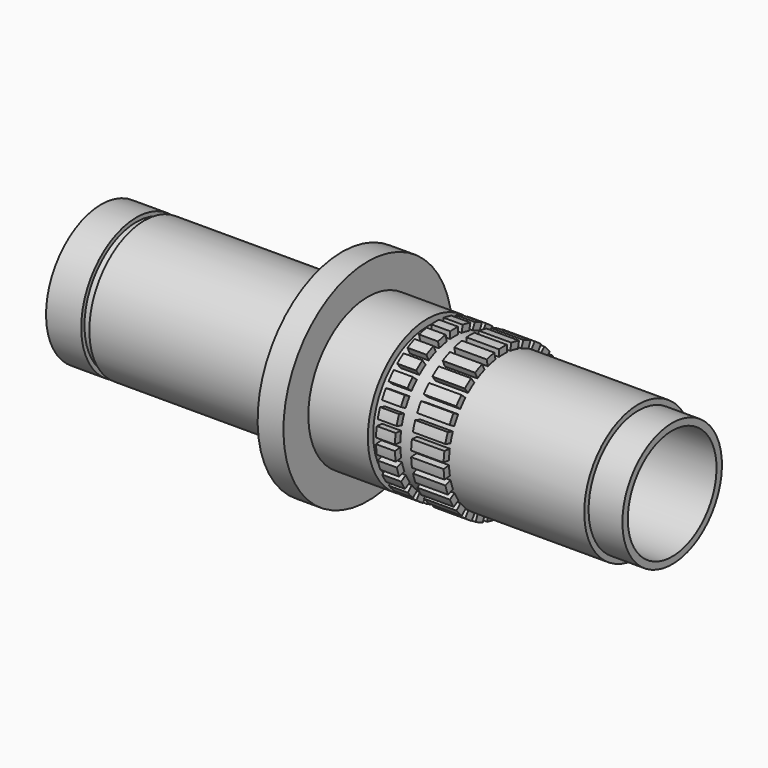
from build123d import *

# Parameters (mm, degrees)
F4_DEPTH  = 7
F7_DEPTH  = 12
F9_DEPTH  = 100
F10_COUNT = 30
F11_COUNT = 30


with BuildPart() as f1:
    # F0 (on Front) → F1 (revolve)
    with BuildSketch(Plane.XZ):
        Polygon((-98.55, 25.5), (-98.55, 15.5), (26.45, 15.5), (26.45, 20.5), (112.5, 20.5), (112.5, 23), (100, 23), (100, 25), (22, 25), (22, 27.5), (0, 27.5), (0, 39), (-9.55, 39), (-9.55, 25.5), (-82.55, 25.5), (-82.55, 24), (-85.55, 24), (-85.55, 25.5), align=None)
    revolve(axis=Axis((20.7005258059, 0, 0), (1, 0, 0)))

    # F8 (on face) → F9 (cut)
    with BuildSketch(Plane(origin=(-98.55, 0, 0), x_dir=(0, -1, 0), z_dir=(-1, 0, 0))):
        with BuildLine():
            ThreePointArc((-3.5, 15.0996688705), (0, 15.5), (3.5, 15.0996688705))
            Line((3.5, 15.0996688705), (3.5, 18.5))
            Line((3.5, 18.5), (-3.5, 18.5))
            Line((-3.5, 18.5), (-3.5, 15.0996688705))
        make_face()
    extrude(amount=-F9_DEPTH, mode=Mode.SUBTRACT)


with BuildPart() as f4:
    # F3 (on offset) → F4 (new body)
    with BuildSketch(Plane.YZ.offset(25)):
        with BuildLine():
            ThreePointArc((-1.9210102004, 24.926085128), (-0.1102360305, 24.9997569592), (1.701117422, 24.9420568421))
            Line((1.701117422, 24.9420568421), (1.701117422, 27.4473350167))
            ThreePointArc((1.701117422, 27.4473350167), (-0.1101855971, 27.4997792561), (-1.9210102004, 27.432821944))
            Line((-1.9210102004, 27.432821944), (-1.9210102004, 24.926085128))
        make_face()
    extrude(amount=F4_DEPTH)


with BuildPart() as f7:
    # F6 (on offset) → F7 (new body)
    with BuildSketch(Plane.YZ.offset(38)):
        with BuildLine():
            Line((1.701117422, 24.9420568421), (1.701117422, 27.4473350167))
            ThreePointArc((1.701117422, 27.4473350167), (-0.1101855971, 27.4997792561), (-1.9210102004, 27.432821944))
            Line((-1.9210102004, 27.432821944), (-1.9210102004, 24.926085128))
            ThreePointArc((-1.9210102004, 24.926085128), (-0.1102360305, 24.9997569592), (1.701117422, 24.9420568421))
        make_face()
    extrude(amount=F7_DEPTH)


with BuildPart() as f10_1:
    # F10: instance of F7
    add(f7.part.rotate(Axis((0, 0, 0), (-1, 0, 0)), 1 * 360 / F10_COUNT))


with BuildPart() as f10_2:
    # F10: instance of F7
    add(f7.part.rotate(Axis((0, 0, 0), (-1, 0, 0)), 2 * 360 / F10_COUNT))


with BuildPart() as f10_3:
    # F10: instance of F7
    add(f7.part.rotate(Axis((0, 0, 0), (-1, 0, 0)), 3 * 360 / F10_COUNT))


with BuildPart() as f10_4:
    # F10: instance of F7
    add(f7.part.rotate(Axis((0, 0, 0), (-1, 0, 0)), 4 * 360 / F10_COUNT))


with BuildPart() as f10_5:
    # F10: instance of F7
    add(f7.part.rotate(Axis((0, 0, 0), (-1, 0, 0)), 5 * 360 / F10_COUNT))


with BuildPart() as f10_6:
    # F10: instance of F7
    add(f7.part.rotate(Axis((0, 0, 0), (-1, 0, 0)), 6 * 360 / F10_COUNT))


with BuildPart() as f10_7:
    # F10: instance of F7
    add(f7.part.rotate(Axis((0, 0, 0), (-1, 0, 0)), 7 * 360 / F10_COUNT))


with BuildPart() as f10_8:
    # F10: instance of F7
    add(f7.part.rotate(Axis((0, 0, 0), (-1, 0, 0)), 8 * 360 / F10_COUNT))


with BuildPart() as f10_9:
    # F10: instance of F7
    add(f7.part.rotate(Axis((0, 0, 0), (-1, 0, 0)), 9 * 360 / F10_COUNT))


with BuildPart() as f10_10:
    # F10: instance of F7
    add(f7.part.rotate(Axis((0, 0, 0), (-1, 0, 0)), 10 * 360 / F10_COUNT))


with BuildPart() as f10_11:
    # F10: instance of F7
    add(f7.part.rotate(Axis((0, 0, 0), (-1, 0, 0)), 11 * 360 / F10_COUNT))


with BuildPart() as f10_12:
    # F10: instance of F7
    add(f7.part.rotate(Axis((0, 0, 0), (-1, 0, 0)), 12 * 360 / F10_COUNT))


with BuildPart() as f10_13:
    # F10: instance of F7
    add(f7.part.rotate(Axis((0, 0, 0), (-1, 0, 0)), 13 * 360 / F10_COUNT))


with BuildPart() as f10_14:
    # F10: instance of F7
    add(f7.part.rotate(Axis((0, 0, 0), (-1, 0, 0)), 14 * 360 / F10_COUNT))


with BuildPart() as f10_15:
    # F10: instance of F7
    add(f7.part.rotate(Axis((0, 0, 0), (-1, 0, 0)), 15 * 360 / F10_COUNT))


with BuildPart() as f10_16:
    # F10: instance of F7
    add(f7.part.rotate(Axis((0, 0, 0), (-1, 0, 0)), 16 * 360 / F10_COUNT))


with BuildPart() as f10_17:
    # F10: instance of F7
    add(f7.part.rotate(Axis((0, 0, 0), (-1, 0, 0)), 17 * 360 / F10_COUNT))


with BuildPart() as f10_18:
    # F10: instance of F7
    add(f7.part.rotate(Axis((0, 0, 0), (-1, 0, 0)), 18 * 360 / F10_COUNT))


with BuildPart() as f10_19:
    # F10: instance of F7
    add(f7.part.rotate(Axis((0, 0, 0), (-1, 0, 0)), 19 * 360 / F10_COUNT))


with BuildPart() as f10_20:
    # F10: instance of F7
    add(f7.part.rotate(Axis((0, 0, 0), (-1, 0, 0)), 20 * 360 / F10_COUNT))


with BuildPart() as f10_21:
    # F10: instance of F7
    add(f7.part.rotate(Axis((0, 0, 0), (-1, 0, 0)), 21 * 360 / F10_COUNT))


with BuildPart() as f10_22:
    # F10: instance of F7
    add(f7.part.rotate(Axis((0, 0, 0), (-1, 0, 0)), 22 * 360 / F10_COUNT))


with BuildPart() as f10_23:
    # F10: instance of F7
    add(f7.part.rotate(Axis((0, 0, 0), (-1, 0, 0)), 23 * 360 / F10_COUNT))


with BuildPart() as f10_24:
    # F10: instance of F7
    add(f7.part.rotate(Axis((0, 0, 0), (-1, 0, 0)), 24 * 360 / F10_COUNT))


with BuildPart() as f10_25:
    # F10: instance of F7
    add(f7.part.rotate(Axis((0, 0, 0), (-1, 0, 0)), 25 * 360 / F10_COUNT))


with BuildPart() as f10_26:
    # F10: instance of F7
    add(f7.part.rotate(Axis((0, 0, 0), (-1, 0, 0)), 26 * 360 / F10_COUNT))


with BuildPart() as f10_27:
    # F10: instance of F7
    add(f7.part.rotate(Axis((0, 0, 0), (-1, 0, 0)), 27 * 360 / F10_COUNT))


with BuildPart() as f10_28:
    # F10: instance of F7
    add(f7.part.rotate(Axis((0, 0, 0), (-1, 0, 0)), 28 * 360 / F10_COUNT))


with BuildPart() as f10_29:
    # F10: instance of F7
    add(f7.part.rotate(Axis((0, 0, 0), (-1, 0, 0)), 29 * 360 / F10_COUNT))


with BuildPart() as f11_1:
    # F11: instance of F4
    add(f4.part.rotate(Axis((0, 0, 0), (-1, 0, 0)), 1 * 360 / F11_COUNT))


with BuildPart() as f11_2:
    # F11: instance of F4
    add(f4.part.rotate(Axis((0, 0, 0), (-1, 0, 0)), 2 * 360 / F11_COUNT))


with BuildPart() as f11_3:
    # F11: instance of F4
    add(f4.part.rotate(Axis((0, 0, 0), (-1, 0, 0)), 3 * 360 / F11_COUNT))


with BuildPart() as f11_4:
    # F11: instance of F4
    add(f4.part.rotate(Axis((0, 0, 0), (-1, 0, 0)), 4 * 360 / F11_COUNT))


with BuildPart() as f11_5:
    # F11: instance of F4
    add(f4.part.rotate(Axis((0, 0, 0), (-1, 0, 0)), 5 * 360 / F11_COUNT))


with BuildPart() as f11_6:
    # F11: instance of F4
    add(f4.part.rotate(Axis((0, 0, 0), (-1, 0, 0)), 6 * 360 / F11_COUNT))


with BuildPart() as f11_7:
    # F11: instance of F4
    add(f4.part.rotate(Axis((0, 0, 0), (-1, 0, 0)), 7 * 360 / F11_COUNT))


with BuildPart() as f11_8:
    # F11: instance of F4
    add(f4.part.rotate(Axis((0, 0, 0), (-1, 0, 0)), 8 * 360 / F11_COUNT))


with BuildPart() as f11_9:
    # F11: instance of F4
    add(f4.part.rotate(Axis((0, 0, 0), (-1, 0, 0)), 9 * 360 / F11_COUNT))


with BuildPart() as f11_10:
    # F11: instance of F4
    add(f4.part.rotate(Axis((0, 0, 0), (-1, 0, 0)), 10 * 360 / F11_COUNT))


with BuildPart() as f11_11:
    # F11: instance of F4
    add(f4.part.rotate(Axis((0, 0, 0), (-1, 0, 0)), 11 * 360 / F11_COUNT))


with BuildPart() as f11_12:
    # F11: instance of F4
    add(f4.part.rotate(Axis((0, 0, 0), (-1, 0, 0)), 12 * 360 / F11_COUNT))


with BuildPart() as f11_13:
    # F11: instance of F4
    add(f4.part.rotate(Axis((0, 0, 0), (-1, 0, 0)), 13 * 360 / F11_COUNT))


with BuildPart() as f11_14:
    # F11: instance of F4
    add(f4.part.rotate(Axis((0, 0, 0), (-1, 0, 0)), 14 * 360 / F11_COUNT))


with BuildPart() as f11_15:
    # F11: instance of F4
    add(f4.part.rotate(Axis((0, 0, 0), (-1, 0, 0)), 15 * 360 / F11_COUNT))


with BuildPart() as f11_16:
    # F11: instance of F4
    add(f4.part.rotate(Axis((0, 0, 0), (-1, 0, 0)), 16 * 360 / F11_COUNT))


with BuildPart() as f11_17:
    # F11: instance of F4
    add(f4.part.rotate(Axis((0, 0, 0), (-1, 0, 0)), 17 * 360 / F11_COUNT))


with BuildPart() as f11_18:
    # F11: instance of F4
    add(f4.part.rotate(Axis((0, 0, 0), (-1, 0, 0)), 18 * 360 / F11_COUNT))


with BuildPart() as f11_19:
    # F11: instance of F4
    add(f4.part.rotate(Axis((0, 0, 0), (-1, 0, 0)), 19 * 360 / F11_COUNT))


with BuildPart() as f11_20:
    # F11: instance of F4
    add(f4.part.rotate(Axis((0, 0, 0), (-1, 0, 0)), 20 * 360 / F11_COUNT))


with BuildPart() as f11_21:
    # F11: instance of F4
    add(f4.part.rotate(Axis((0, 0, 0), (-1, 0, 0)), 21 * 360 / F11_COUNT))


with BuildPart() as f11_22:
    # F11: instance of F4
    add(f4.part.rotate(Axis((0, 0, 0), (-1, 0, 0)), 22 * 360 / F11_COUNT))


with BuildPart() as f11_23:
    # F11: instance of F4
    add(f4.part.rotate(Axis((0, 0, 0), (-1, 0, 0)), 23 * 360 / F11_COUNT))


with BuildPart() as f11_24:
    # F11: instance of F4
    add(f4.part.rotate(Axis((0, 0, 0), (-1, 0, 0)), 24 * 360 / F11_COUNT))


with BuildPart() as f11_25:
    # F11: instance of F4
    add(f4.part.rotate(Axis((0, 0, 0), (-1, 0, 0)), 25 * 360 / F11_COUNT))


with BuildPart() as f11_26:
    # F11: instance of F4
    add(f4.part.rotate(Axis((0, 0, 0), (-1, 0, 0)), 26 * 360 / F11_COUNT))


with BuildPart() as f11_27:
    # F11: instance of F4
    add(f4.part.rotate(Axis((0, 0, 0), (-1, 0, 0)), 27 * 360 / F11_COUNT))


with BuildPart() as f11_28:
    # F11: instance of F4
    add(f4.part.rotate(Axis((0, 0, 0), (-1, 0, 0)), 28 * 360 / F11_COUNT))


with BuildPart() as f11_29:
    # F11: instance of F4
    add(f4.part.rotate(Axis((0, 0, 0), (-1, 0, 0)), 29 * 360 / F11_COUNT))


solid = Compound([f1.part, f4.part, f7.part, f10_1.part, f10_2.part, f10_3.part, f10_4.part, f10_5.part, f10_6.part, f10_7.part, f10_8.part, f10_9.part, f10_10.part, f10_11.part, f10_12.part, f10_13.part, f10_14.part, f10_15.part, f10_16.part, f10_17.part, f10_18.part, f10_19.part, f10_20.part, f10_21.part, f10_22.part, f10_23.part, f10_24.part, f10_25.part, f10_26.part, f10_27.part, f10_28.part, f10_29.part, f11_1.part, f11_2.part, f11_3.part, f11_4.part, f11_5.part, f11_6.part, f11_7.part, f11_8.part, f11_9.part, f11_10.part, f11_11.part, f11_12.part, f11_13.part, f11_14.part, f11_15.part, f11_16.part, f11_17.part, f11_18.part, f11_19.part, f11_20.part, f11_21.part, f11_22.part, f11_23.part, f11_24.part, f11_25.part, f11_26.part, f11_27.part, f11_28.part, f11_29.part])
